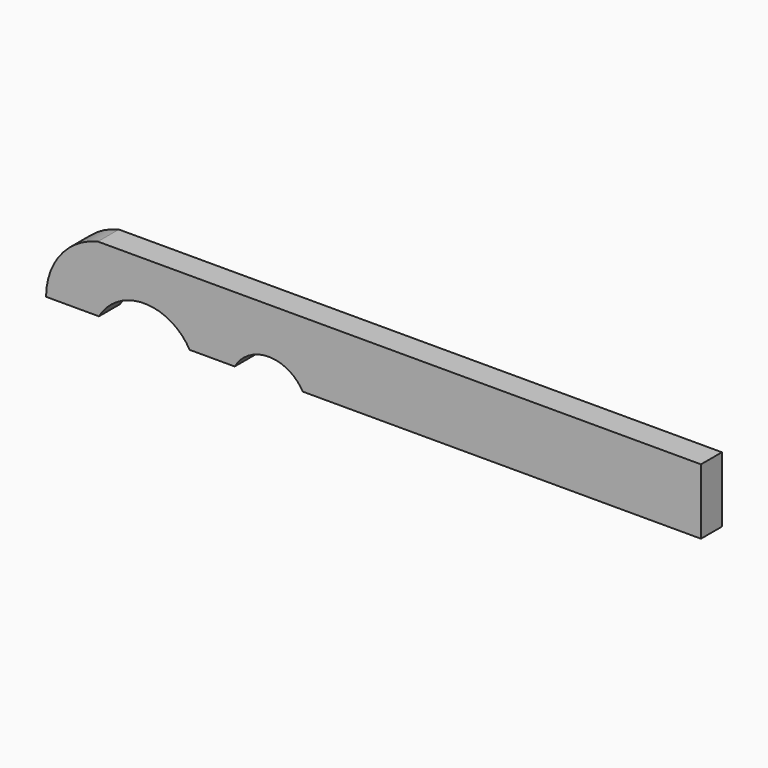
from build123d import *

# Parameters (mm, degrees)
F1_DEPTH = 20


with BuildPart() as f1:
    # F0 (on Front) → F1 (new body)
    with BuildSketch(Plane.XZ):
        with BuildLine():
            Line((500, 0), (39.594704, 0))
            ThreePointArc((39.594704, 0), (11.097425, -18.110579), (0, -50))
            Line((0, -50), (40.358984, -50))
            ThreePointArc((40.358984, -50), (75, -30), (109.641016, -50))
            Line((109.641016, -50), (144.019238, -50))
            ThreePointArc((144.019238, -50), (170, -35), (195.980762, -50))
            Line((195.980762, -50), (500, -50))
            Line((500, -50), (500, 0))
        make_face()
    extrude(amount=F1_DEPTH)


solid = f1.part
